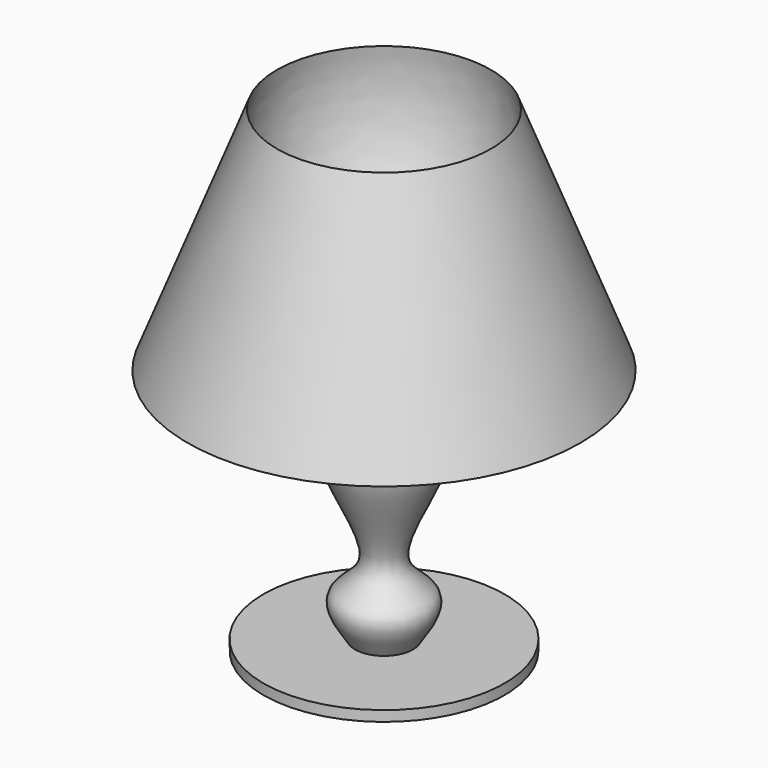
from build123d import *


with BuildPart() as f1:
    # F0 (on Front) → F1 (revolve)
    with BuildSketch(Plane.XZ):
        Polygon((-54.2788095772, 0), (-20.9643170238, 0), (-20.9643170238, 2.8745711315), (-28.9782695472, 2.8745711315), (-54.2788095772, 2.8745711315), align=None)
        with BuildLine():
            Line((-28.9782695472, 2.8745711315), (-20.9643170238, 2.8745711315))
            Line((-20.9643170238, 2.8745711315), (-20.9643170238, 75.2913281322))
            Line((-20.9643170238, 75.2913281322), (-41.9218662355, 75.2913281322))
            add(Edge.make_bspline(
                [(-28.9782695472, 2.8745711315), (-32.0202115458, 7.3057846036), (-36.5899238254, 14.6996630446), (-18.3235629284, 21.4550960171), (-45.7777425001, 54.9980878586), (-18.365723851, 63.1394053047), (-39.763589728, 74.874764164), (-41.9218662355, 75.2913281322)],
                knots=[0, 0, 0, 0, 0.1596126669, 0.3163645209, 0.5798036908, 0.7551637319, 0.9407986939, 0.9407986939, 0.9407986939, 0.9407986939], degree=3))
        make_face()
        with BuildLine():
            Line((-41.9218662355, 75.2913281322), (-20.9643170238, 75.2913281322))
            ThreePointArc((-20.9643170238, 75.2913281322), (-45.365760326, 98.3682081512), (-50.5167916417, 131.5561532974))
            Line((-50.5167916417, 131.5561532974), (-75.2241760492, 68.1222379208))
            ThreePointArc((-75.2241760492, 68.1222379208), (-58.183058387, 68.9521729207), (-42.286061139, 75.1468449684))
            add(Edge.make_bspline(
                [(-41.9218662355, 75.2913281322), (-42.0769512416, 75.3212607313), (-42.2981117162, 75.3231297411), (-42.3043427091, 75.1951487009), (-42.286061139, 75.1468449684)],
                knots=[0.9407986939, 0.9407986939, 0.9407986939, 0.9407986939, 0.9541376702, 0.9677607835, 0.9677607835, 0.9677607835, 0.9677607835], degree=3))
        make_face()
        with BuildLine():
            Line((-42.042657733, 75.2913281322), (-41.9218662355, 75.2913281322))
            add(Edge.make_bspline(
                [(-41.9218662355, 75.2913281322), (-42.0769512416, 75.3212607313), (-42.2981117162, 75.3231297411), (-42.3043427091, 75.1951487009), (-42.286061139, 75.1468449684)],
                knots=[0.9407986939, 0.9407986939, 0.9407986939, 0.9407986939, 0.9541376702, 0.9677607835, 0.9677607835, 0.9677607835, 0.9677607835], degree=3))
            ThreePointArc((-42.286061139, 75.1468449684), (-42.1642631014, 75.2189242604), (-42.042657733, 75.2913281322))
        make_face()
        with BuildLine():
            ThreePointArc((-42.042657733, 75.2913281322), (-42.1642631014, 75.2189242604), (-42.286061139, 75.1468449684))
            add(Edge.make_bspline(
                [(-42.286061139, 75.1468449684), (-42.2762297613, 75.1208684119), (-42.2056935042, 75.0273792188), (-42.1158573661, 75.1746339237), (-42.042657733, 75.2913281322)],
                knots=[0.9677607835, 0.9677607835, 0.9677607835, 0.9677607835, 0.975086958, 1, 1, 1, 1], degree=3))
        make_face()
    revolve(axis=Axis((-20.9643170238, 0, 39.0829496318), (0, 0, -1)))


solid = f1.part
